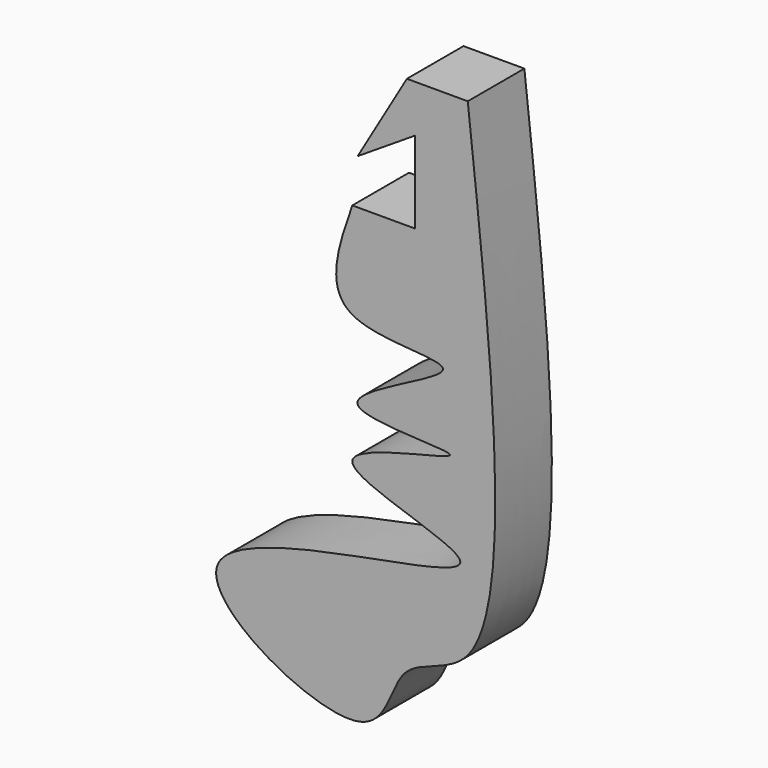
from build123d import *

# Parameters (mm, degrees)
F1_DEPTH = 25.4


with BuildPart() as f1:
    # F0 (on Front) → F1 (new body)
    with BuildSketch(Plane.XZ):
        with BuildLine():
            add(Edge.make_bspline(
                [(-57.9448975623, 14.1857266426), (-62.9555884356, -0.1868742285), (-72.8806421015, -28.6557974417), (1.7737707091, -20.5900371719), (-87.0393328792, -54.1249299836), (9.9712265036, -50.035169721), (-94.5627096416, -66.2258515112), (36.4076659858, -90.9324453335), (-162.3801041821, -100.701967599), (-45.6706285513, -165.8057982396), (-44.3158848409, -120.7842353949), (3.8813741411, -124.2880369376), (-7.9684253364, -16.9376094282), (-16.5219604969, 60.5560690165)],
                knots=[0, 0, 0, 0, 0.0762704736, 0.1510748415, 0.2299231046, 0.3050892043, 0.3845662572, 0.4699331324, 0.5941257138, 0.6949294618, 0.7620048231, 0.828192635, 1, 1, 1, 1], degree=3))
            Line((-16.5219604969, 60.5560690165), (-38.3633747697, 60.5560690165))
            Line((-38.3633747697, 60.5560690165), (-56.0292303562, 30.3635150194))
            Line((-56.0292303562, 30.3635150194), (-35.4726016521, 43.5326099396))
            Line((-35.4726016521, 43.5326099396), (-35.4726016521, 14.1857266426))
            Line((-35.4726016521, 14.1857266426), (-57.9448975623, 14.1857266426))
        make_face()
    extrude(amount=F1_DEPTH)


solid = f1.part
